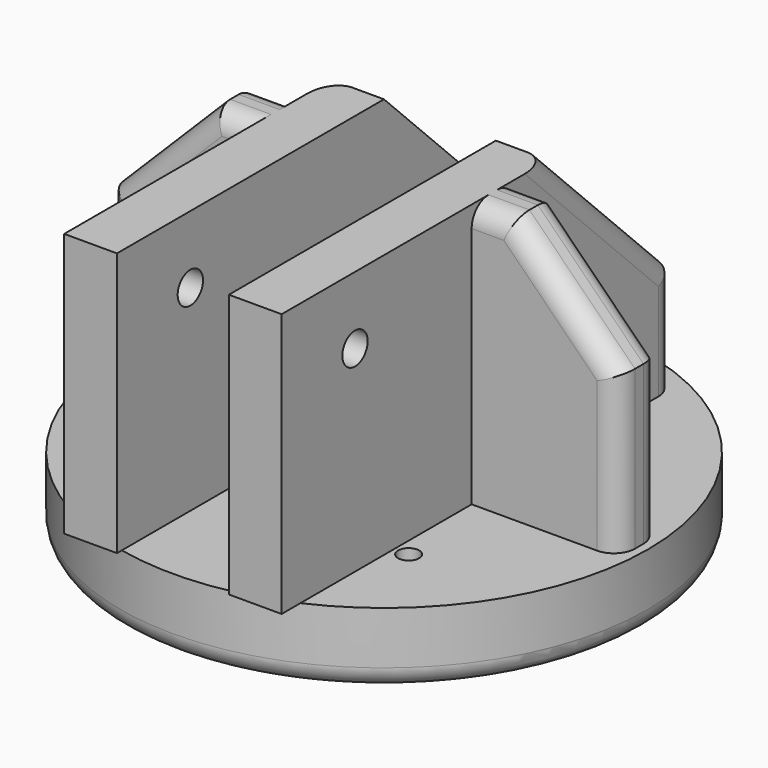
from build123d import *

# Parameters (mm, degrees)
SKETCH_R        = 25
PAD_DEPTH       = 7
PAD001_DEPTH    = 25
CHAMFER_SIZE    = 15
CHAMFER001_SIZE = 10
FILLET_R        = 2
FILLET001_R     = 2
FILLET002_R     = 2
SKETCH002_R     = 1.5
POCKET_DEPTH    = 35.301
FILLET003_R     = 2
SKETCH003_R     = 1
POCKET001_DEPTH = 32.001
SKETCH004_R     = 3.5
POCKET002_DEPTH = 32.001


with BuildPart() as part:
    # Sketch → Pad (new body)
    with BuildSketch(Plane.XY):
        Circle(SKETCH_R)
    extrude(amount=PAD_DEPTH)

    # Sketch001 → Pad001 (new body)
    with BuildSketch(Plane.XY.offset(7)):
        Polygon((5.3, 21.614464), (10.3, 21.614464), (10.3, 2.5), (24.176399, 2.5), (24.176399, -2.5), (10.3, -2.5), (10.3, -25), (5.3, -25), align=None)
    pad001 = extrude(amount=PAD001_DEPTH)

    # Mirrored: Pad001 across Sketch001 V_Axis
    add(pad001.mirror(Plane(origin=(0, 0, 7), x_dir=(0, 0, 1), z_dir=(1, 0, 0))))

    # Chamfer
    chamfer_edges = [part.edges().sort_by_distance(p)[0] for p in [
        (7.8, 21.614464, 32),
        (-7.8, 21.614464, 32),
    ]]
    chamfer(chamfer_edges, length=CHAMFER_SIZE)

    # Chamfer001
    chamfer001_edges = [part.edges().sort_by_distance(p)[0] for p in [
        (24.176399, 0, 32),
        (-24.176399, 0, 32),
    ]]
    chamfer(chamfer001_edges, length=CHAMFER001_SIZE)

    # Fillet
    fillet_edges = [part.edges().sort_by_distance(p)[0] for p in [
        (10.3, 14.114464, 24.5),
        (10.3, 21.614464, 12),
        (-10.3, 14.114464, 24.5),
        (-10.3, 21.614464, 12),
    ]]
    fillet(fillet_edges, radius=FILLET_R)

    # Fillet001
    fillet001_edges = [part.edges().sort_by_distance(p)[0] for p in [
        (-19.176399, 2.5, 27),
        (-24.176399, 2.5, 14.5),
        (-19.176399, -2.5, 27),
        (-24.176399, -2.5, 14.5),
        (-12.2382, 2.5, 32),
        (-12.2382, -2.5, 32),
    ]]
    fillet(fillet001_edges, radius=FILLET001_R)

    # Fillet002
    fillet002_edges = [part.edges().sort_by_distance(p)[0] for p in [
        (12.2382, 2.5, 32),
        (19.176399, 2.5, 27),
        (24.176399, 2.5, 14.5),
        (24.176399, -2.5, 14.5),
        (19.176399, -2.5, 27),
        (12.2382, -2.5, 32),
    ]]
    fillet(fillet002_edges, radius=FILLET002_R)

    # Sketch002 → Pocket (cut, through all)
    with BuildSketch(Plane.YZ.offset(10.3)):
        with Locations((7.071707, 13.472552)):
            Circle(SKETCH002_R)
        with Locations((-16.31287, 25.611097)):
            Circle(SKETCH002_R)
    extrude(amount=-POCKET_DEPTH, mode=Mode.SUBTRACT)

    # Fillet003
    fillet003_edges = [part.edges().sort_by_distance(p)[0] for p in [
        (-25, 0, 0),
    ]]
    fillet(fillet003_edges, radius=FILLET003_R)

    # Sketch003 → Pocket001 (cut, through all)
    with BuildSketch(Plane(origin=(0, 0, 0), x_dir=(1, 0, 0), z_dir=(0, 0, -1))):
        with Locations((11.667262, 11.667262)):
            Circle(SKETCH003_R)
        with Locations((-11.667262, 11.667262)):
            Circle(SKETCH003_R)
        with Locations((11.667262, -11.667262)):
            Circle(SKETCH003_R)
        with Locations((-11.667262, -11.667262)):
            Circle(SKETCH003_R)
    extrude(amount=-POCKET001_DEPTH, mode=Mode.SUBTRACT)

    # Sketch004 → Pocket002 (cut, through all)
    with BuildSketch(Plane(origin=(0, 0, 0), x_dir=(1, 0, 0), z_dir=(0, 0, -1))):
        Circle(SKETCH004_R)
    extrude(amount=-POCKET002_DEPTH, mode=Mode.SUBTRACT)


solid = part.part
